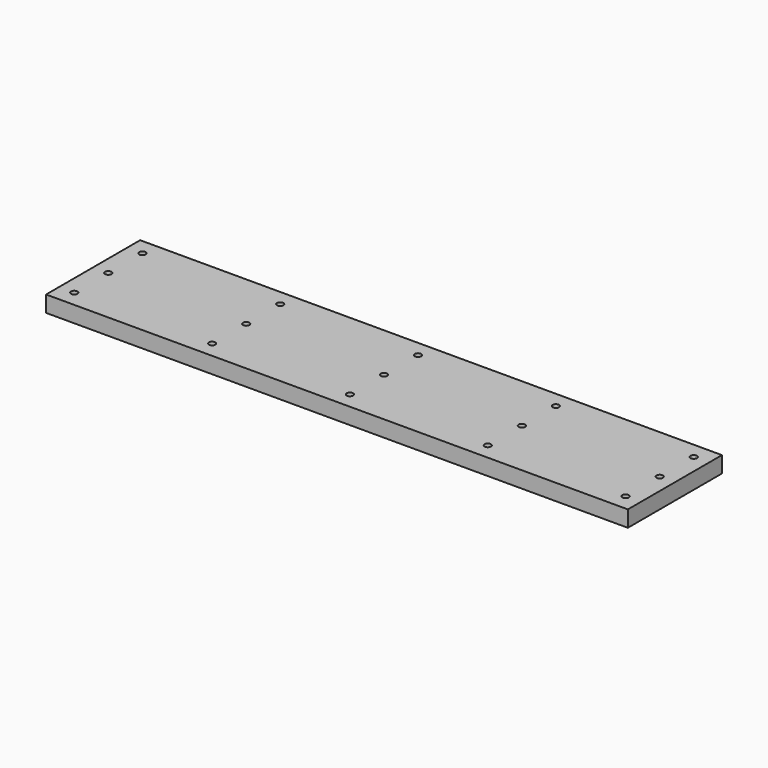
from build123d import *

# Parameters (mm, degrees)
F0_W     = 911.225
F0_H     = 184.15
F1_DEPTH = 12.7
F3_D     = 10.0838


with BuildPart() as f1:
    # F0 (on Top) → F1 (new body, symmetric)
    with BuildSketch(Plane.XY):
        Rectangle(F0_W, F0_H)
    extrude(amount=F1_DEPTH, both=True)

    # F3 (through all)
    with Locations(Plane.XY.offset(12.7)):
        with Locations((-431.8, 66.675), (-431.8, 0), (-431.8, -66.675), (-215.9, -66.675), (-215.9, 0), (-215.9, 66.675), (0, 66.675), (0, 0), (215.9, 66.675), (215.9, 0), (215.9, -66.675), (431.8, -66.675), (431.8, 0), (431.8, 66.675), (0, -66.675)):
            Hole(F3_D / 2)


solid = f1.part
